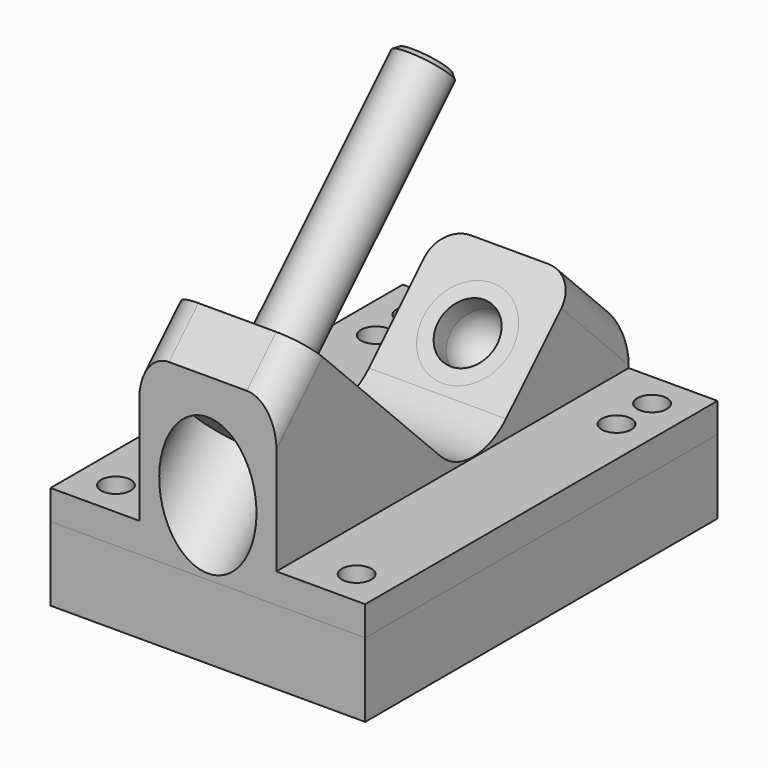
from build123d import *

# Parameters (mm, degrees)
F1_DEPTH  = 27.0002
F2_R      = 9.906
F3_W      = 75.565
F3_H      = 31.9594877579
F4_DEPTH  = 15.24
F5_R      = 2.54
F6_DEPTH  = 5.081
F8_R      = 5.08
F15_SIZE  = 0.762
F20_W     = 54.0004
F20_H     = 75.565
F20_R     = 2.54
F21_DEPTH = 12.7


with BuildPart() as f1:
    # F0 (on Right) → F1 (new body)
    with BuildSketch(Plane.YZ):
        Polygon((0, 30.7152561211), (0, 0), (75.565, 0), (75.565, 12.7), (64.6958964237, 23.5691035763), (42.2452561211, 1.1184632736), (6.3242316368, 37.0394877579), align=None)
    extrude(amount=F1_DEPTH)

    # F2
    f2_edges = [f1.edges().sort_by_distance(p)[0] for p in [
        (13.5001, 42.245256, 1.118463),
    ]]
    fillet(f2_edges, radius=F2_R)

    # F3 (on face) → F4 (cut)
    with BuildSketch(Plane.YZ.offset(27.0002)):
        with Locations((37.7825, 21.0597438789)):
            Rectangle(F3_W, F3_H)
    extrude(amount=-F4_DEPTH, mode=Mode.SUBTRACT)

    # F5 (on face) → F6 (cut, through all)
    with BuildSketch(Plane.XY.offset(5.08)):
        with Locations((20.6502, 69.469)):
            Circle(F5_R)
        with Locations((20.6502, 61.849)):
            Circle(F5_R)
        with Locations((20.6502, 6.096)):
            Circle(F5_R)
    extrude(amount=-F6_DEPTH, mode=Mode.SUBTRACT)

    # F7: F1 across face


with BuildPart() as f1_1:
    add(f1.part)
    add(f1.part.mirror(Plane(origin=(0, 31.4337361572, 11.6287579026), x_dir=(0, 1, 0), z_dir=(-1, 0, 0))))

    # F8
    f8_edges = [f1_1.edges().sort_by_distance(p)[0] for p in [
        (-11.7602, 70.130448, 18.134552),
        (11.7602, 70.130448, 18.134552),
        (11.7602, 3.162116, 33.877372),
        (-11.7602, 3.162116, 33.877372),
    ]]
    fillet(f8_edges, radius=F8_R)

    # F9 (on Right) → F10 (revolve, cut)
    with BuildSketch(Plane.YZ):
        Polygon((15.3044877579, 28.0592316368), (11.9368917125, 31.4268276822), (5.2016996217, 24.6916355914), (2.6692673955, 27.2240678175), (-12.277400211, 12.277400211), (-6.3773719395, 6.3773719395), align=None)
    revolve(axis=Axis((0, 22.0396798487, 34.7944237276), (0, 0.7071067812, 0.7071067812)), mode=Mode.SUBTRACT)

    # F16 (on Right) → F17 (revolve, cut)
    with BuildSketch(Plane.YZ):
        Polygon((55.7156403027, 14.5888474552), (64.6958964237, 5.6085913341), (70.0840500964, 10.9967450068), (61.1037939753, 19.9770011278), align=None)
    revolve(axis=Axis((0, 46.7353841816, 23.5691035763), (0, 0.7071067812, -0.7071067812)), mode=Mode.SUBTRACT)


with BuildPart() as f12:
    # F11 (on Right) → F12 (revolve)
    with BuildSketch(Plane.YZ):
        Polygon((11.9368917125, 31.4268276822), (5.2016996217, 24.6916355914), (2.9476553353, 26.9456798778), (1.1516041111, 25.1496286536), (6.7732444428, 19.5279883218), (46.7353841816, 59.4901280605), (43.3677881362, 62.8577241059), align=None)
    revolve(axis=Axis((0, 26.7543143122, 39.5090581912), (0, 0.7071067812, 0.7071067812)))

    # F15
    f15_edges = [f12.edges().sort_by_distance(p)[0] for p in [
        (0, 50.10298, 56.122532),
    ]]
    chamfer(f15_edges, length=F15_SIZE)


with BuildPart() as f13:
    # F11 (on Right) → F13 (revolve)
    with BuildSketch(Plane.YZ):
        Polygon((11.9368917125, 31.4268276822), (5.2016996217, 24.6916355914), (2.9476553353, 26.9456798778), (1.1516041111, 25.1496286536), (6.7732444428, 19.5279883218), (46.7353841816, 59.4901280605), (43.3677881362, 62.8577241059), align=None)
    revolve(axis=Axis((0, 22.0396798487, 34.7944237276), (0, 0.7071067812, 0.7071067812)))


with BuildPart() as f19:
    # F18 (on Right) → F19 (revolve)
    with BuildSketch(Plane.YZ):
        with BuildLine():
            Line((64.6958964237, 5.6085913341), (70.0840500964, 10.9967450068))
            Line((70.0840500964, 10.9967450068), (61.1037939753, 19.9770011278))
            Line((61.1037939753, 19.9770011278), (59.3077427511, 18.1809499036))
            Line((59.3077427511, 18.1809499036), (62.0018195874, 15.4868730673))
            ThreePointArc((62.0018195874, 15.4868730673), (63.489717139, 11.8947706189), (62.0018195874, 8.3026681704))
            Line((62.0018195874, 8.3026681704), (64.6958964237, 5.6085913341))
        make_face()
    revolve(axis=Axis((0, 46.7353841816, 23.5691035763), (0, 0.7071067812, -0.7071067812)))


with BuildPart() as f21:
    # F20 (on face) → F21 (new body)
    with BuildSketch(Plane(origin=(0, 0, 0), x_dir=(1, 0, 0), z_dir=(0, 0, -1))):
        with Locations((0, -37.7825)):
            Rectangle(F20_W, F20_H)
        with Locations((-20.6502, -69.469)):
            Circle(F20_R, mode=Mode.SUBTRACT)
        with Locations((20.6502, -69.469)):
            Circle(F20_R, mode=Mode.SUBTRACT)
        with Locations((-20.6502, -6.096)):
            Circle(F20_R, mode=Mode.SUBTRACT)
        with Locations((20.6502, -6.096)):
            Circle(F20_R, mode=Mode.SUBTRACT)
    extrude(amount=F21_DEPTH)


solid = Compound([f1_1.part, f12.part, f19.part, f21.part])
